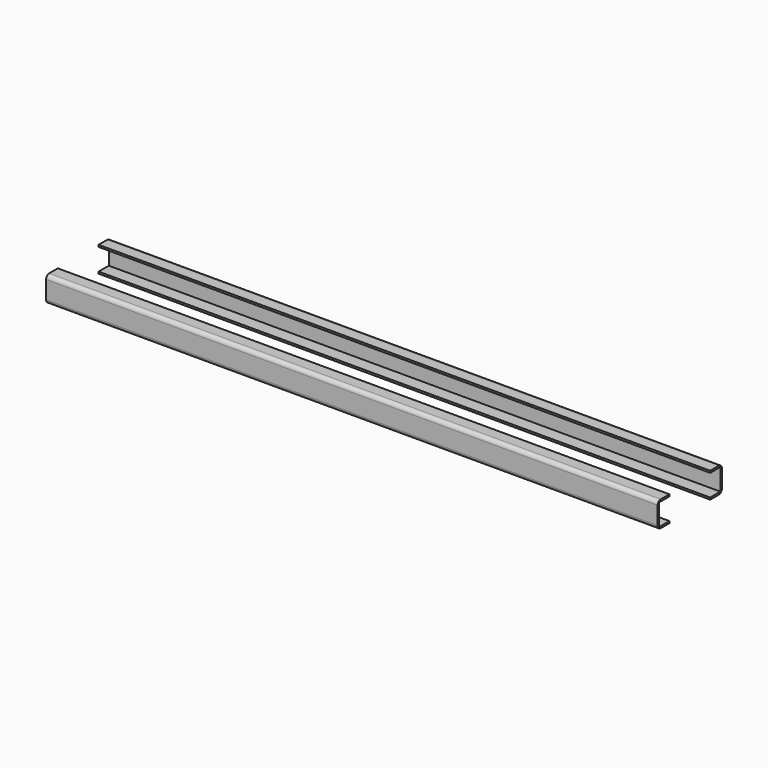
from build123d import *

# Parameters (mm, degrees)
BOX417_W     = 480
BOX417_H     = 10
BOX417_DEPTH = 17
BOX416_W     = 480
BOX416_H     = 11.5
BOX416_DEPTH = 20
FILLET268_R  = 3
BOX419_W     = 480
BOX419_H     = 10
BOX419_DEPTH = 17
BOX418_W     = 480
BOX418_H     = 11.5
BOX418_DEPTH = 20
FILLET269_R  = 3


with BuildPart() as cube642:
    # Box417 → Box417 (new body)
    with BuildSketch(Plane(origin=(0, 1.5, -90.5), x_dir=(1, 0, 0), z_dir=(0, 0, 1))):
        with Locations((240, 5)):
            Rectangle(BOX417_W, BOX417_H)
    extrude(amount=BOX417_DEPTH)


with BuildPart() as fillet268:
    # Box416 → Box416 (new body)
    with BuildSketch(Plane.XY.offset(-92)):
        with Locations((240, 5.75)):
            Rectangle(BOX416_W, BOX416_H)
    extrude(amount=BOX416_DEPTH)

    # Cut429: cut Cube642
    add(cube642.part, mode=Mode.SUBTRACT)

    # Fillet268
    fillet268_edges = [fillet268.edges().sort_by_distance(p)[0] for p in [
        (240, 0, -72),
        (240, 0, -92),
    ]]
    fillet(fillet268_edges, radius=FILLET268_R)


with BuildPart() as fillet268_1:
    # Fillet268 placement: moved
    add(fillet268.part.moved(Location((0, -1.5, 0))))


with BuildPart() as cube644:
    # Box419 → Box419 (new body)
    with BuildSketch(Plane(origin=(0, 1.5, -90.5), x_dir=(1, 0, 0), z_dir=(0, 0, 1))):
        with Locations((240, 5)):
            Rectangle(BOX419_W, BOX419_H)
    extrude(amount=BOX419_DEPTH)


with BuildPart() as fillet269:
    # Box418 → Box418 (new body)
    with BuildSketch(Plane.XY.offset(-92)):
        with Locations((240, 5.75)):
            Rectangle(BOX418_W, BOX418_H)
    extrude(amount=BOX418_DEPTH)

    # Cut430: cut Cube644
    add(cube644.part, mode=Mode.SUBTRACT)

    # Fillet269
    fillet269_edges = [fillet269.edges().sort_by_distance(p)[0] for p in [
        (240, 0, -72),
        (240, 0, -92),
    ]]
    fillet(fillet269_edges, radius=FILLET269_R)


with BuildPart() as fusion231:
    # Part__Mirroring036: instance of Fillet269
    add(fillet269.part.mirror(Plane(origin=(0, 0, 0), x_dir=(1, 0, 0), z_dir=(0, 1, 0))))


with BuildPart() as fusion231_1:
    # Part__Mirroring036 placement: moved
    add(fusion231.part.moved(Location((0, 61.5, 0))))

    # Fusion231: union Fillet268
    add(fillet268_1.part)


with BuildPart() as fusion231_2:
    # Fusion231 placement: moved
    add(fusion231_1.part.moved(Location((23.5, 55, 74))))


solid = fusion231_2.part
